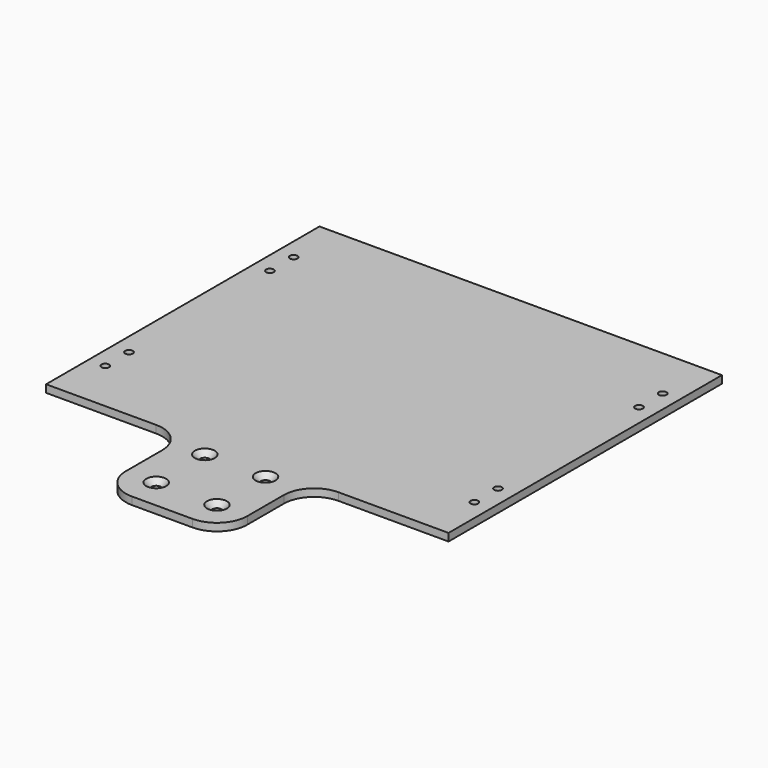
from build123d import *

# Parameters (mm, degrees)
F0_R     = 3.05
F0_R_2   = 2.5
F1_DEPTH = 5
F2_SIZE  = 3.5


with BuildPart() as f1:
    # F0 (on Top) → F1 (new body)
    with BuildSketch(Plane.XY):
        with BuildLine():
            Line((0, 225), (0, 0))
            Line((0, 0), (72.5, 0))
            ThreePointArc((72.5, 0), (86.642136, -5.857864), (92.5, -20))
            Line((92.5, -20), (92.5, -50))
            ThreePointArc((92.5, -50), (98.357864, -64.142136), (112.5, -70))
            Line((112.5, -70), (152.5, -70))
            ThreePointArc((152.5, -70), (166.642136, -64.142136), (172.5, -50))
            Line((172.5, -50), (172.5, -20))
            ThreePointArc((172.5, -20), (178.357864, -5.857864), (192.5, 0))
            Line((192.5, 0), (265, 0))
            Line((265, 0), (265, 225))
            Line((265, 225), (0, 225))
        make_face()
        with Locations((112.5, -50)):
            Circle(F0_R, mode=Mode.SUBTRACT)
        with Locations((112.5, -10)):
            Circle(F0_R, mode=Mode.SUBTRACT)
        with Locations((11, 35)):
            Circle(F0_R_2, mode=Mode.SUBTRACT)
        with Locations((11, 54.5)):
            Circle(F0_R_2, mode=Mode.SUBTRACT)
        with Locations((152.5, -50)):
            Circle(F0_R, mode=Mode.SUBTRACT)
        with Locations((152.5, -10)):
            Circle(F0_R, mode=Mode.SUBTRACT)
        with Locations((254, 35)):
            Circle(F0_R_2, mode=Mode.SUBTRACT)
        with Locations((254, 54.5)):
            Circle(F0_R_2, mode=Mode.SUBTRACT)
        with Locations((11, 170.5)):
            Circle(F0_R_2, mode=Mode.SUBTRACT)
        with Locations((11, 190)):
            Circle(F0_R_2, mode=Mode.SUBTRACT)
        with Locations((254, 170.5)):
            Circle(F0_R_2, mode=Mode.SUBTRACT)
        with Locations((254, 190)):
            Circle(F0_R_2, mode=Mode.SUBTRACT)
    extrude(amount=F1_DEPTH)

    # F2
    f2_edges = [f1.edges().sort_by_distance(p)[0] for p in [
        (109.45, -10, 5),
        (149.45, -10, 5),
        (109.45, -50, 5),
        (149.45, -50, 5),
    ]]
    chamfer(f2_edges, length=F2_SIZE)


solid = f1.part
